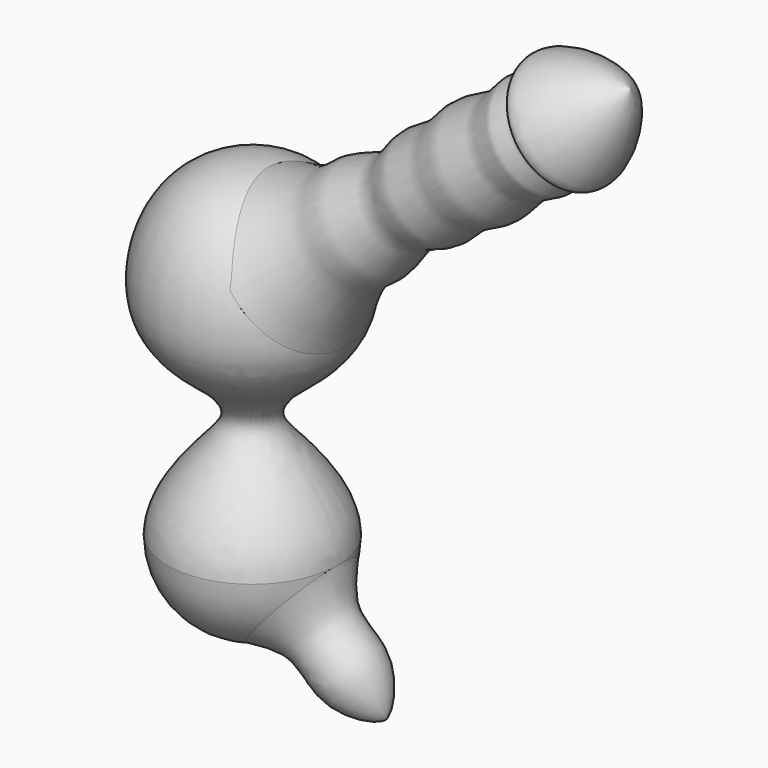
from build123d import *


with BuildPart() as f1:
    # F0 (on Front) → F1 (revolve)
    with BuildSketch(Plane.XZ):
        with BuildLine():
            Line((0, 23.1251325458), (0, -69.85))
            ThreePointArc((0, -69.85), (13.4703841816, -64.2703841816), (19.05, -50.8))
            add(Edge.make_bspline(
                [(0, 23.1251325458), (18.1356334752, 23.2159168619), (28.5980837935, -8.1805497047), (9.1007178948, -19.4973486877), (4.0429915626, -26.9268646545), (9.1369998458, -32.8254209743), (18.8718047742, -43.5668532758), (19.05, -50.8)],
                knots=[5.69979e-05, 5.69979e-05, 5.69979e-05, 5.69979e-05, 0.2955725855, 0.5150485027, 0.646135454, 0.7738793028, 1, 1, 1, 1], degree=3))
        make_face()
    revolve(axis=Axis((0, 0, -23.3624337271), (0, 0, -1)))

    # F2 (on Front) → F3 (revolve)
    with BuildSketch(Plane.XZ):
        with BuildLine():
            Line((19.0572477877, -50.7983230054), (0, -50.5973771214))
            Line((0, -50.5973771214), (29.9683138728, -77.7700394392))
            add(Edge.make_bspline(
                [(19.0572477877, -50.7983230054), (19.5741607272, -55.3200569008), (20.3449855515, -60.6633899333), (29.5682008388, -65.5257639073), (31.2708995594, -75.5147847943), (29.9683138728, -77.7700394392)],
                knots=[0, 0, 0, 0, 0.2066253783, 0.4114888495, 0.6306588554, 0.6306588554, 0.6306588554, 0.6306588554], degree=3))
        make_face()
    revolve(axis=Axis((14.9841569364, 0, -64.1837082803), (0.7408162249, 0, -0.6717077645)))

    # F4 (on Front) → F5 (revolve)
    with BuildSketch(Plane.XZ):
        with BuildLine():
            Line((84.8294347525, 64.6655336022), (0, 0))
            add(Edge.make_bspline(
                [(84.8294347525, 64.6655336022), (85.1486520335, 62.2111644603), (86.0186774195, 57.3803331111), (79.6755046079, 40.4626042415), (74.767390393, 45.2916023412), (72.2760058976, 39.0573686108), (65.2577565726, 37.8641737226), (60.2715614634, 29.5769376402), (52.2635562796, 27.5475073411), (47.8509272871, 21.07260009), (39.0531456884, 19.8003925475), (34.23430485, 9.6097347851), (27.0032283737, 7.6053939444), (17.6845638229, -15.5633482989), (24.3834757994, 1.1885491985), (0, 0)],
                knots=[0, 0, 0, 0, 0.0727494774, 0.1710220022, 0.2176313931, 0.2739466329, 0.3404955662, 0.4173191685, 0.4888687455, 0.5575058979, 0.63046451, 0.7107045319, 0.7838808098, 0.8793732687, 1, 1, 1, 1], degree=3))
        make_face()
    revolve(axis=Axis((42.4147173762, 0, 32.3327668011), (0.7952799189, 0, 0.6062424024)))


solid = f1.part
